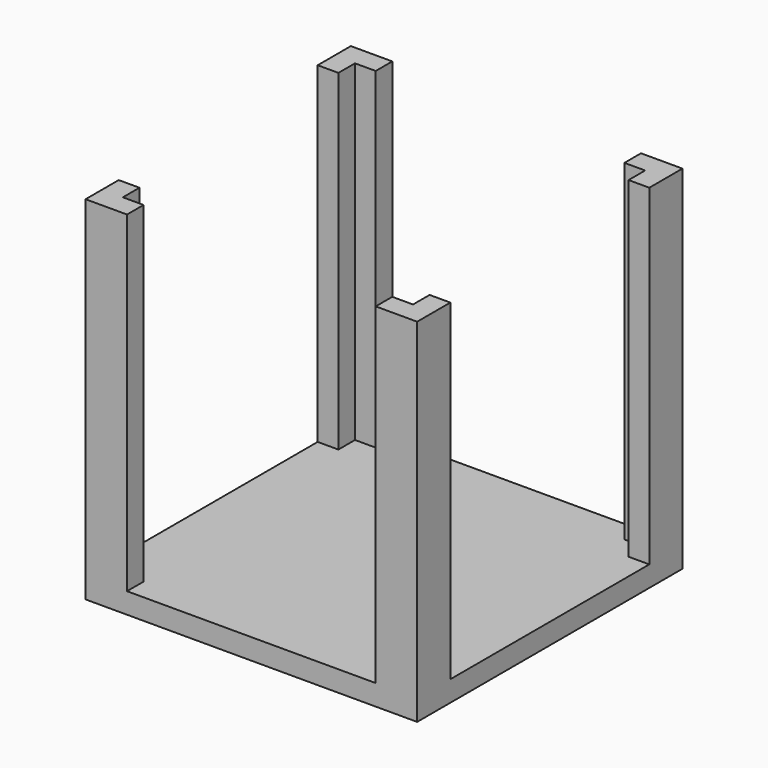
from build123d import *

# Parameters (mm, degrees)
F0_W     = 80
F0_H     = 80
F1_DEPTH = 5
F3_DEPTH = 80


with BuildPart() as f1:
    # F0 (on Top) → F1 (new body)
    with BuildSketch(Plane.XY):
        Rectangle(F0_W, F0_H)
    extrude(amount=F1_DEPTH)

    # F2 (on face) → F3 (join)
    with BuildSketch(Plane.XY.offset(5)):
        Polygon((40, 40), (30, 40), (30, 35), (35, 35), (35, 30), (40, 30), align=None)
        Polygon((40, -30), (35, -30), (35, -35), (30, -35), (30, -40), (40, -40), align=None)
        Polygon((-30, -40), (-30, -35), (-35, -35), (-35, -30), (-40, -30), (-40, -40), align=None)
        Polygon((-40, 30), (-35, 30), (-35, 35), (-30, 35), (-30, 40), (-40, 40), align=None)
    extrude(amount=F3_DEPTH)


solid = f1.part
